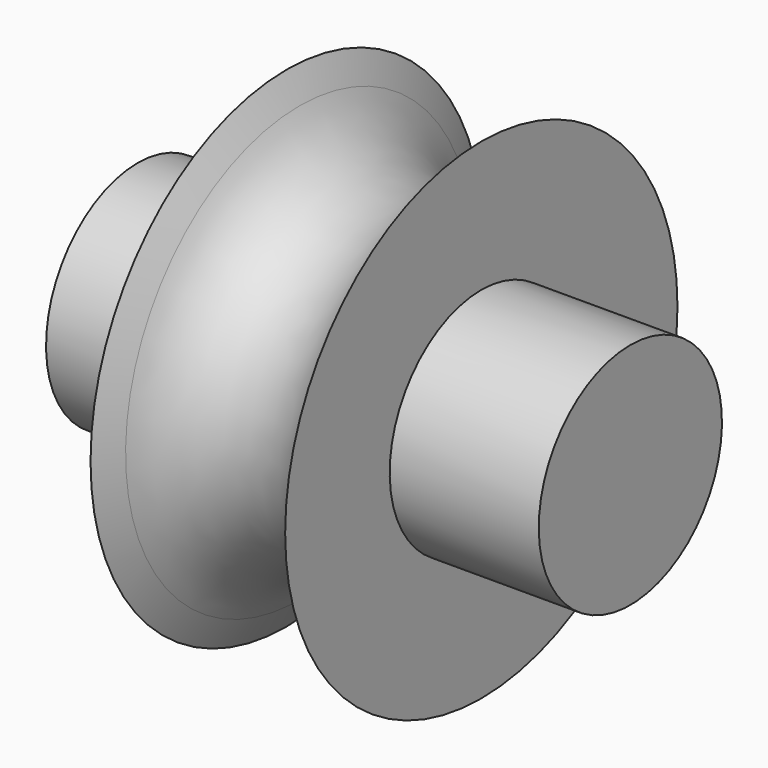
from build123d import *

# Parameters (mm, degrees)
F0_W = 15.4980453622
F0_H = 11.90625


with BuildPart() as f1:
    # F0 (on Front) → F1 (revolve)
    with BuildSketch(Plane.XZ):
        with BuildLine():
            Line((-29.3751272816, 20.7111547367), (-30.7169402626, 23.5886819605))
            Line((-30.7169402626, 23.5886819605), (-30.7169402626, 10.0000788365))
            Line((-30.7169402626, 10.0000788365), (-30.7169402626, -1.9061711635))
            Line((-30.7169402626, -1.9061711635), (-10.4812309871, -1.9061711635))
            Line((-10.4812309871, -1.9061711635), (-10.4812309871, 10.0000788365))
            Line((-10.4812309871, 10.0000788365), (-10.4812309871, 23.5886819605))
            Line((-10.4812309871, 23.5886819605), (-11.8230439681, 20.7111547367))
            ThreePointArc((-11.8230439681, 20.7111547367), (-20.5990856249, 14.8884132148), (-29.3751272816, 20.7111547367))
        make_face()
        with Locations((-38.4659629438, 4.0469538365)):
            Rectangle(F0_W, F0_H)
        with Locations((-2.732208306, 4.0469538365)):
            Rectangle(F0_W, F0_H)
    revolve(axis=Axis((-19.7645360604, 0, -1.9061711635), (1, 0, 0)))


solid = f1.part
